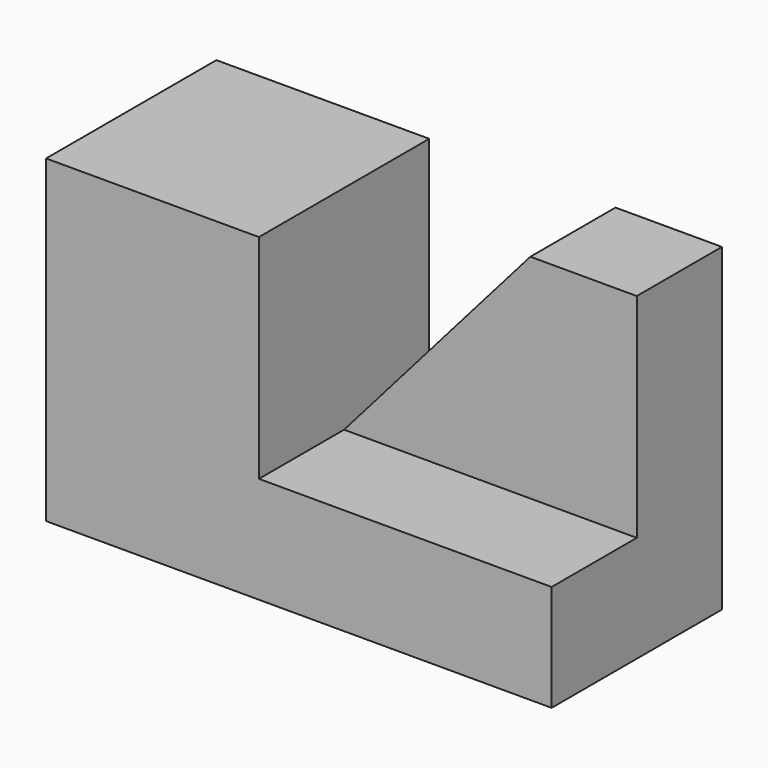
from build123d import *

# Parameters (mm, degrees)
F0_W     = 12.7
F0_H     = 12.7
F1_DEPTH = 12.7
F2_W     = 6.35
F2_H     = 6.35
F3_DEPTH = 12.7
F5_DEPTH = 6.35


with BuildPart() as f1:
    # F0 (on Front) → F1 (new body)
    with BuildSketch(Plane.XZ):
        with Locations((-18.813286, 29.219552)):
            Rectangle(F0_W, F0_H)
        Polygon((-12.463286, 22.869552), (-25.163286, 22.869552), (-25.163286, 16.519552), (4.999214, 16.519552), (4.999214, 22.869552), align=None)
    extrude(amount=F1_DEPTH)

    # F2 (on face) → F3 (join)
    with BuildSketch(Plane.XY.offset(22.869552)):
        with Locations((1.824214, -3.175)):
            Rectangle(F2_W, F2_H)
    extrude(amount=F3_DEPTH)

    # F4 (on face) → F5 (join)
    with BuildSketch(Plane(origin=(0, 0, 0), x_dir=(-1, 0, 0), z_dir=(0, 1, 0))):
        Polygon((12.463286, 22.869552), (1.350786, 35.569552), (1.350786, 22.869552), align=None)
    extrude(amount=-F5_DEPTH)


solid = f1.part
